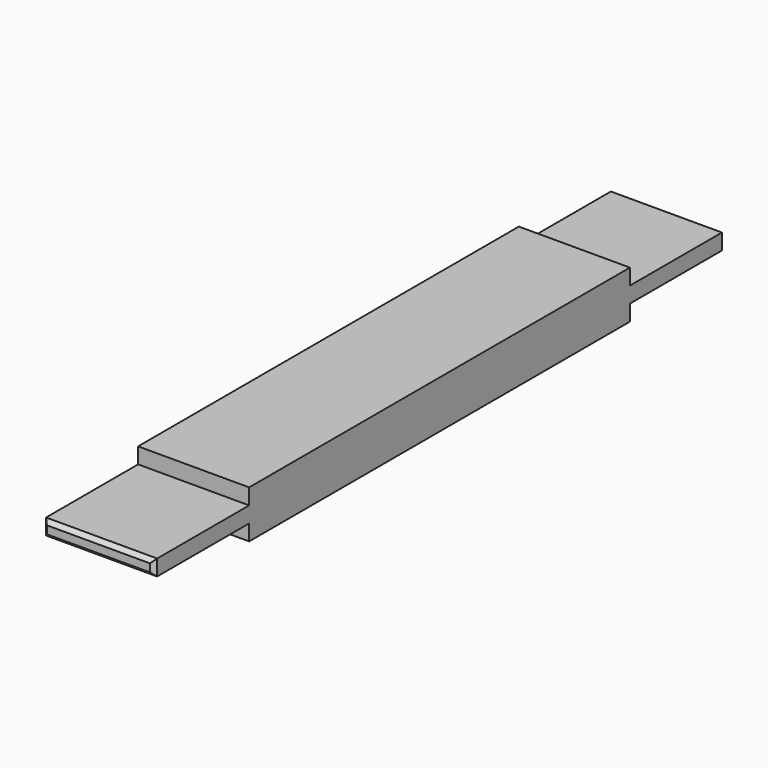
from build123d import *

# Parameters (mm, degrees)
F0_W     = 88.9
F0_H     = 38.1
F1_DEPTH = 190.5
F2_W     = 88.9
F2_H     = 12.7
F3_DEPTH = 95.25
F4_SIZE  = 3.175


with BuildPart() as f1:
    # F0 (on Front) → F1 (new body)
    with BuildSketch(Plane.XZ):
        with Locations((44.45, 19.05)):
            Rectangle(F0_W, F0_H)
    extrude(amount=F1_DEPTH)

    # F2 (on face) → F3 (join)
    with BuildSketch(Plane.XZ.offset(190.5)):
        with Locations((44.45, 19.05)):
            Rectangle(F2_W, F2_H)
    extrude(amount=F3_DEPTH)

    # F4
    f4_edges = [f1.edges().sort_by_distance(p)[0] for p in [
        (44.45, -285.75, 25.4),
        (0, -285.75, 19.05),
        (44.45, -285.75, 12.7),
        (88.9, -285.75, 19.05),
    ]]
    chamfer(f4_edges, length=F4_SIZE)

    # F5: F1 across face


with BuildPart() as f1_1:
    add(f1.part)
    add(f1.part.mirror(Plane(origin=(44.45, 0, 19.05), x_dir=(1, 0, 0), z_dir=(0, 1, 0))))


solid = f1_1.part
